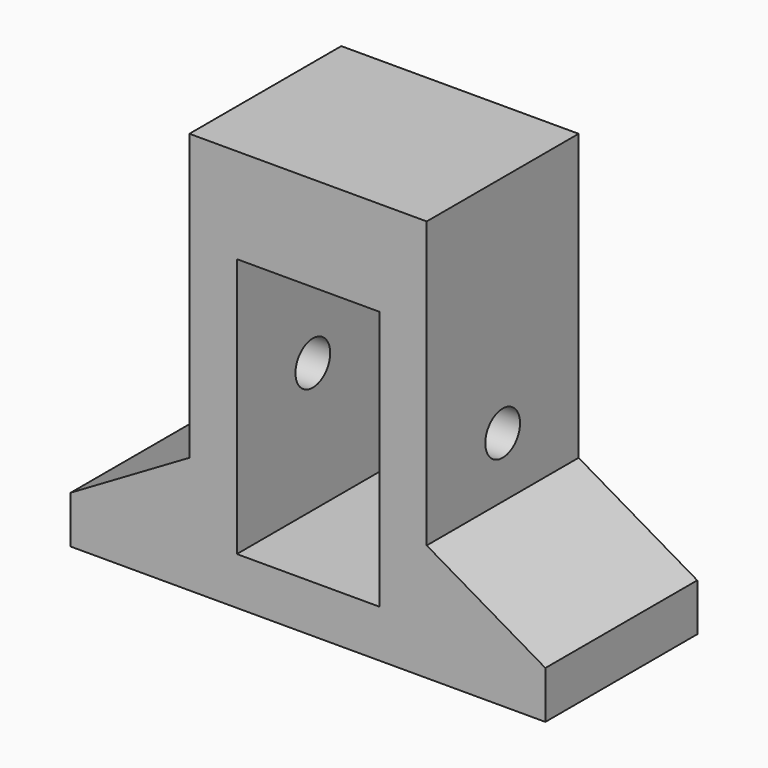
from build123d import *

# Parameters (mm, degrees)
F0_W      = 50
F0_H      = 20
F1_DEPTH  = 5
F2_W      = 17.5
F2_H      = 20
F3_DEPTH  = 20
F5_DEPTH  = 20.001
F6_R      = 2.286
F7_DEPTH  = 37.501
F8_DEPTH  = 17.35
F9_W      = 20
F9_H      = 10
F10_DEPTH = 25


with BuildPart() as f1:
    # F0 (on Top) → F1 (new body)
    with BuildSketch(Plane.XY):
        Rectangle(F0_W, F0_H)
    extrude(amount=F1_DEPTH)

    # F2 (on face) → F3 (join)
    with BuildSketch(Plane.XY.offset(5)):
        with Locations((16.25, 0)):
            Rectangle(F2_W, F2_H)
        with Locations((-16.25, 0)):
            Rectangle(F2_W, F2_H)
    extrude(amount=F3_DEPTH)

    # F4 (on face) → F5 (cut, through all)
    with BuildSketch(Plane(origin=(0, 10, 0), x_dir=(-1, 0, 0), z_dir=(0, 1, 0))):
        Polygon((-25, 5), (-12.5, 12.3), (-12.5, 25), (-25, 25), align=None)
        Polygon((12.5, 25), (12.5, 12.3), (25, 5), (25, 25), align=None)
    extrude(amount=-F5_DEPTH, mode=Mode.SUBTRACT)

    # F6 (on face) → F7 (cut, through all)
    with BuildSketch(Plane(origin=(-12.5, 0, 0), x_dir=(0, -1, 0), z_dir=(-1, 0, 0))):
        with Locations((0, 18.65)):
            Circle(F6_R)
    extrude(amount=-F7_DEPTH, mode=Mode.SUBTRACT)

    # F8 (add): faces of the model
    f8_faces = [f1.faces().sort_by_distance(p)[0] for p in [
        (-10, 0, 25),
        (10, 0, 25),
    ]]
    extrude(f8_faces, amount=F8_DEPTH)

    # F9 (on face) → F10 (join, through all)
    with BuildSketch(Plane.YZ.offset(12.5)):
        with Locations((0, 37.35)):
            Rectangle(F9_W, F9_H)
    extrude(amount=-F10_DEPTH)


solid = f1.part
